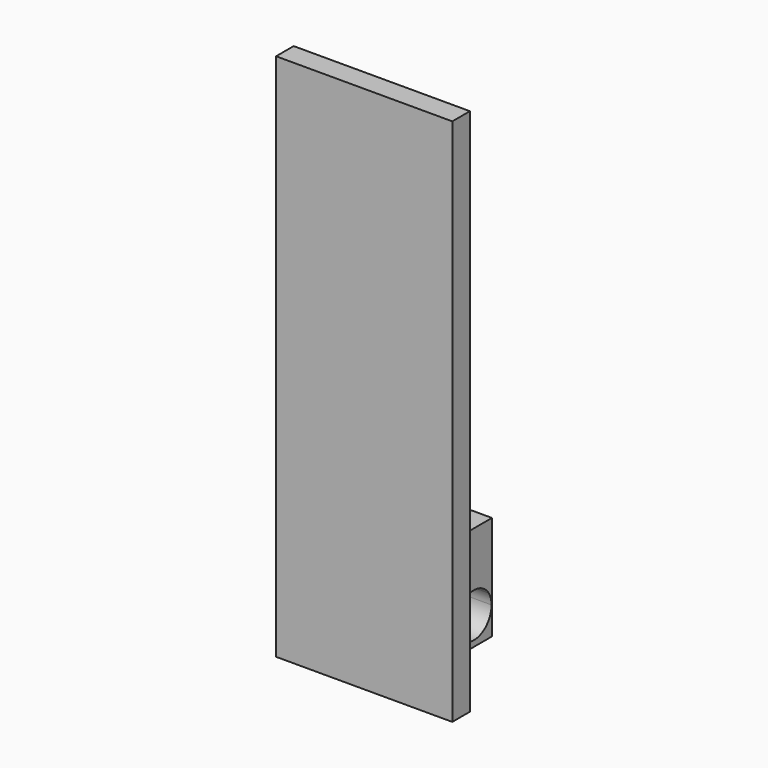
from build123d import *

# Parameters (mm, degrees)
F0_W     = 50.8
F0_H     = 152.4
F1_DEPTH = 6.35
F2_W     = 12.7
F2_H     = 30.0863
F3_DEPTH = 31.75
F6_DEPTH = 31.751


with BuildPart() as f1:
    # F0 (on Front) → F1 (new body)
    with BuildSketch(Plane.XZ):
        Rectangle(F0_W, F0_H)
    extrude(amount=F1_DEPTH)

    # F2 (on face) → F3 (join)
    with BuildSketch(Plane(origin=(0, 0, 0), x_dir=(-1, 0, 0), z_dir=(0, 1, 0))):
        with Locations((0, -61.15685)):
            Rectangle(F2_W, F2_H)
    extrude(amount=F3_DEPTH)

    # F5 (on face) → F6 (cut, through all)
    with BuildSketch(Plane.YZ.offset(6.35)):
        with BuildLine():
            ThreePointArc((20.0271333182, -64.5413445885), (25.26483083, -67.5054111988), (30.6239423072, -64.7669645094))
            ThreePointArc((30.6239423072, -64.7669645094), (25.3862447954, -61.802897899), (20.0271333182, -64.5413445885))
        make_face()
        with BuildLine():
            ThreePointArc((20.0271333182, -64.5413445885), (23.3602469249, -74.2134114917), (31.6010756254, -68.1514590979))
            ThreePointArc((31.6010756254, -68.1514590979), (31.3519035786, -66.3900964761), (30.6239423072, -64.7669645094))
            ThreePointArc((30.6239423072, -64.7669645094), (25.26483083, -67.5054111988), (20.0271333182, -64.5413445885))
        make_face()
    extrude(amount=-F6_DEPTH, mode=Mode.SUBTRACT)


solid = f1.part
